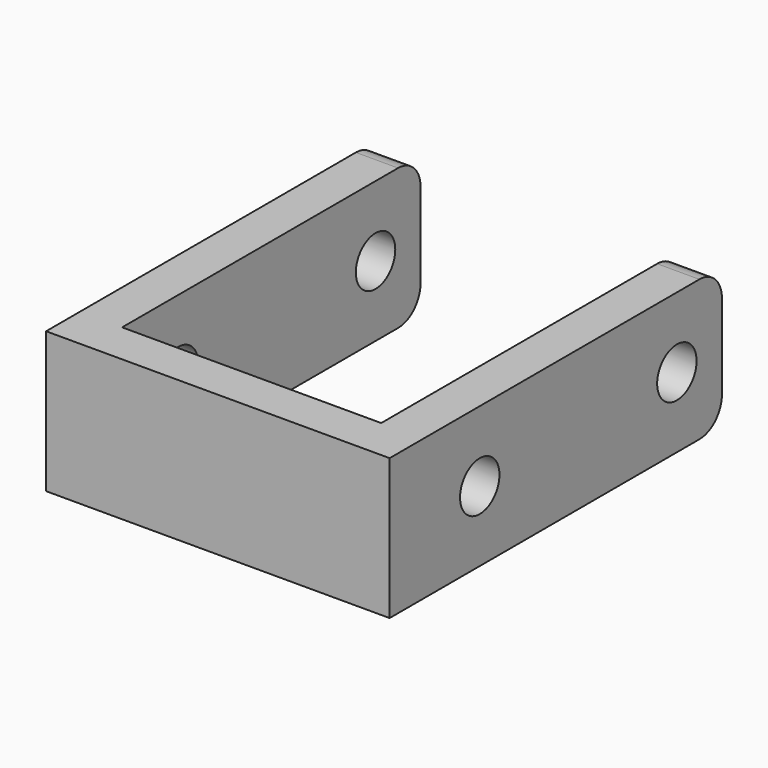
from build123d import *

# Parameters (mm, degrees)
SKETCH_R     = 1.75
PAD_DEPTH    = 24.4
SKETCH001_W  = 10
SKETCH001_H  = 18.4
POCKET_DEPTH = 26.5
SKETCH002_W  = 10
SKETCH002_H  = 24.4
PAD001_DEPTH = 3


with BuildPart() as part:
    # Sketch → Pad (new body)
    with BuildSketch(Plane.YZ):
        with BuildLine():
            Line((-13.75, 5), (10.75, 5))
            ThreePointArc((12.75, 3), (12.164214, 4.414214), (10.75, 5))
            Line((12.75, 3), (12.75, -3))
            ThreePointArc((10.75, -5), (12.164214, -4.414214), (12.75, -3))
            Line((10.75, -5), (-13.75, -5))
            Line((-13.75, -5), (-13.75, 5))
        make_face()
        with Locations((-8.75, 0)):
            Circle(SKETCH_R, mode=Mode.SUBTRACT)
        with Locations((8.75, 0)):
            Circle(SKETCH_R, mode=Mode.SUBTRACT)
    extrude(amount=PAD_DEPTH)

    # Sketch001 → Pocket (cut)
    with BuildSketch(Plane(origin=(0, -13.75, 0), x_dir=(0, 0, -1), z_dir=(0, -1, 0))):
        with Locations((0, 12.2)):
            Rectangle(SKETCH001_W, SKETCH001_H)
    extrude(amount=-POCKET_DEPTH, mode=Mode.SUBTRACT)

    # Sketch002 → Pad001 (new body)
    with BuildSketch(Plane(origin=(0, -13.75, 0), x_dir=(0, 0, -1), z_dir=(0, -1, 0))):
        with Locations((0, 12.2)):
            Rectangle(SKETCH002_W, SKETCH002_H)
    extrude(amount=PAD001_DEPTH)


solid = part.part
